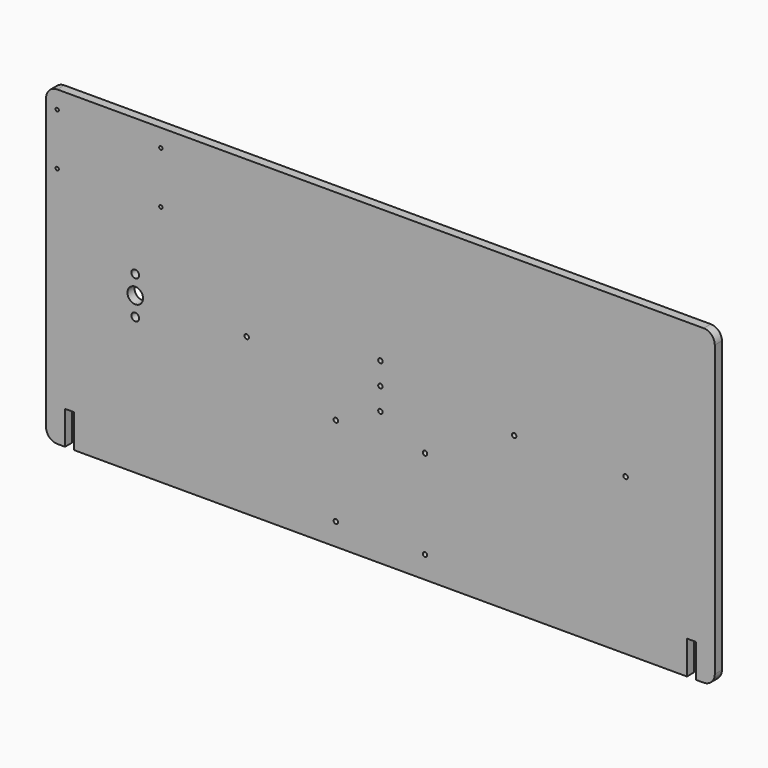
from build123d import *

# Parameters (mm, degrees)
F0_W     = 300
F0_H     = 140
F1_DEPTH = 4
F2_R     = 5
F3_R     = 1
F3_R_2   = 3.5
F3_R_3   = 1.75
F3_W     = 4
F3_H     = 15
F3_R_4   = 0.75
F4_DEPTH = 4.001
F5_R     = 1
F6_DEPTH = 4.001


with BuildPart() as f1:
    # F0 (on Front) → F1 (new body)
    with BuildSketch(Plane.XZ):
        Rectangle(F0_W, F0_H)
    extrude(amount=F1_DEPTH)

    # F2
    f2_edges = [f1.edges().sort_by_distance(p)[0] for p in [
        (150, -2, 70),
        (150, -2, -70),
        (-150, -2, -70),
        (-150, -2, 70),
    ]]
    fillet(f2_edges, radius=F2_R)

    # F3 (on face) → F4 (cut, through all)
    with BuildSketch(Plane.XZ.offset(4)):
        Circle(F3_R)
        with Locations((60, 0)):
            Circle(F3_R)
        with Locations((-60, 0)):
            Circle(F3_R)
        with Locations((-110, 0)):
            Circle(F3_R_2)
        with Locations((110, 0)):
            Circle(F3_R)
        with Locations((-110, 8.5)):
            Circle(F3_R_3)
        with Locations((-110, -8.5)):
            Circle(F3_R_3)
        with Locations((-139.5, -62.5)):
            Rectangle(F3_W, F3_H)
        with Locations((139.5, -62.5)):
            Rectangle(F3_W, F3_H)
        with Locations((-145, 62)):
            Circle(F3_R_4)
        with Locations((-98.5, 62)):
            Circle(F3_R_4)
        with Locations((-145, 38.7)):
            Circle(F3_R_4)
        with Locations((-98.5, 38.7)):
            Circle(F3_R_4)
        with Locations((-20, -20)):
            Circle(F3_R)
        with Locations((20, -20)):
            Circle(F3_R)
        with Locations((20, -60)):
            Circle(F3_R)
        with Locations((-20, -60)):
            Circle(F3_R)
    extrude(amount=-F4_DEPTH, mode=Mode.SUBTRACT)

    # F5 (on face) → F6 (cut, through all)
    with BuildSketch(Plane.XZ.offset(4)):
        with Locations((0, 10)):
            Circle(F5_R)
        with Locations((0, -10)):
            Circle(F5_R)
    extrude(amount=-F6_DEPTH, mode=Mode.SUBTRACT)


solid = f1.part
